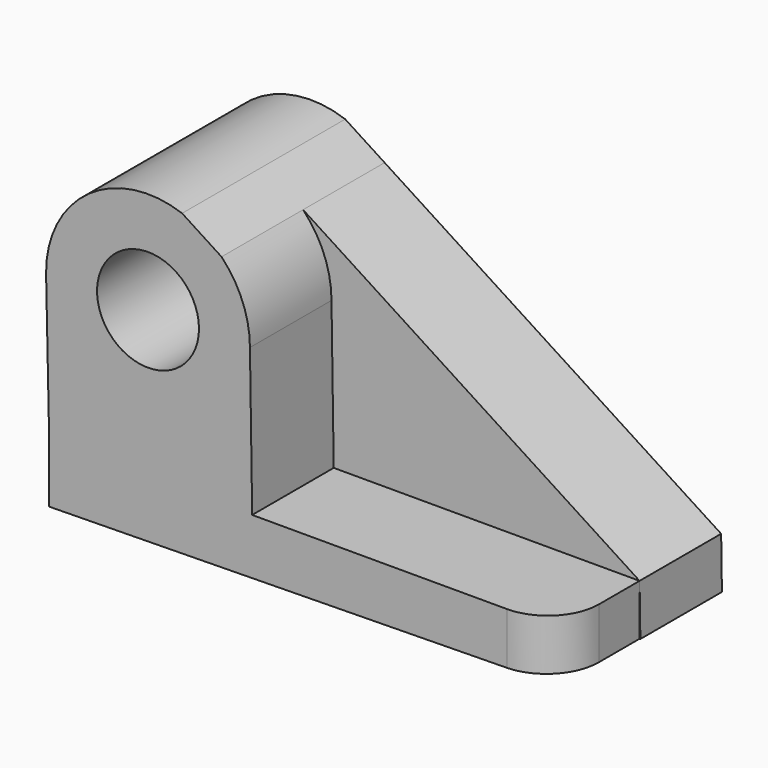
from build123d import *

# Parameters (mm, degrees)
F0_R     = 12.7
F1_DEPTH = 25.4
F2_R     = 12.7
F3_DEPTH = 25.4
F4_R     = 12.7


with BuildPart() as f1:
    # F0 (on Front) → F1 (new body)
    with BuildSketch(Plane.XZ):
        with BuildLine():
            Line((22.6161210575, -50.3441899378), (-61.2315756106, 3.798879284))
            Line((-61.2315756106, 3.798879284), (-71.0548742693, 10.14208918))
            ThreePointArc((-71.0548742693, 10.14208918), (-94.3608422008, 6.8416897346), (-104.9488988238, -14.1810083481))
            Line((-104.9488988238, -14.1810083481), (-104.1759357505, -64.9751273787))
            Line((-104.1759357505, -64.9751273787), (22.8093618259, -63.0427196954))
            Line((22.8093618259, -63.0427196954), (22.6161210575, -50.3441899378))
        make_face()
        with Locations((-79.5518393085, -13.7945268115)):
            Circle(F0_R, mode=Mode.SUBTRACT)
    extrude(amount=F1_DEPTH)

    # F2 (on face) → F3 (join)
    with BuildSketch(Plane.XZ.offset(25.4)):
        with BuildLine():
            Line((-61.2315756106, 3.798879284), (-71.0548742693, 10.14208918))
            ThreePointArc((-71.0548742693, 10.14208918), (-94.3608422008, 6.8416897346), (-104.9488988238, -14.1810083481))
            Line((-104.9488988238, -14.1810083481), (-104.9422175693, -14.4935917412))
            Line((-104.9422175693, -14.4935917412), (-104.1759357505, -50.3441899378))
            Line((-104.1759357505, -50.3441899378), (-104.1759357505, -64.9751273787))
            Line((-104.1759357505, -64.9751273787), (22.6161210575, -63.0456603504))
            Line((22.6161210575, -63.0456603504), (22.6161210575, -50.3441899378))
            Line((22.6161210575, -50.3441899378), (-53.5956422432, -50.3441899378))
            Line((-53.5956422432, -50.3441899378), (-54.1518393085, -13.7945268115))
            ThreePointArc((-54.1518393085, -13.7945268115), (-55.9881522251, -4.3122986431), (-61.2315756106, 3.798879284))
        make_face()
        with Locations((-79.5518393085, -13.7945268115)):
            Circle(F2_R, mode=Mode.SUBTRACT)
    extrude(amount=F3_DEPTH)

    # F4
    f4_edges = [f1.edges().sort_by_distance(p)[0] for p in [
        (22.616121, -50.8, -56.694925),
    ]]
    fillet(f4_edges, radius=F4_R)


solid = f1.part
